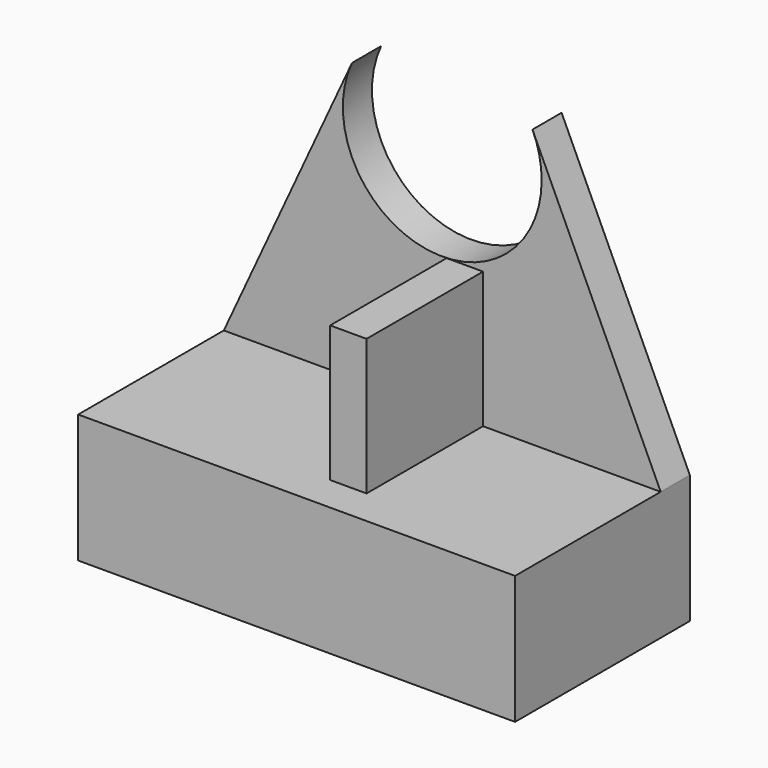
from build123d import *

# Parameters (mm, degrees)
F0_W     = 304.8
F0_H     = 89.688896
F1_DEPTH = 152.4
F2_DEPTH = 25.4
F4_DEPTH = 12.7


with BuildPart() as f1:
    # F0 (on Front) → F1 (new body)
    with BuildSketch(Plane.XZ):
        with Locations((-15.761086, -104.025281)):
            Rectangle(F0_W, F0_H)
    extrude(amount=F1_DEPTH)

    # F0 (on Front) → F2 (join)
    with BuildSketch(Plane.XZ):
        with BuildLine():
            Line((-78.707459, 134.241588), (-168.161086, -59.180833))
            Line((-168.161086, -59.180833), (136.638914, -59.180833))
            Line((136.638914, -59.180833), (47.185288, 134.241588))
            ThreePointArc((47.185288, 134.241588), (51.970658, 120.034148), (53.591021, 105.130271))
            ThreePointArc((53.591021, 105.130271), (-30.664962, 37.398527), (-78.707459, 134.241588))
        make_face()
    extrude(amount=F2_DEPTH)

    # F3 (on Right) → F4 (join, symmetric)
    with BuildSketch(Plane.YZ):
        Polygon((-23.240424, -61.891118), (-25.4, 35.778165), (-127, 35.778165), (-127, -61.891118), align=None)
    extrude(amount=F4_DEPTH, both=True)


solid = f1.part
